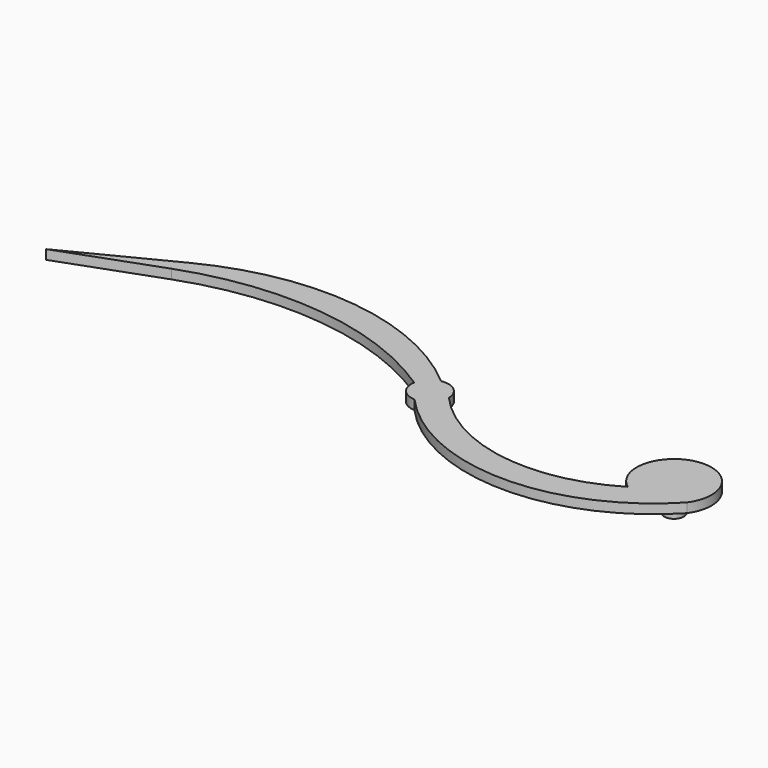
from build123d import *

# Parameters (mm, degrees)
F0_R     = 1.5875
F0_R_2   = 1.651
F1_DEPTH = 1.6002
F2_R     = 1.5875
F2_R_2   = 1.651
F3_DEPTH = 4.7752


with BuildPart() as f1:
    # F0 (on Top) → F1 (new body)
    with BuildSketch(Plane.XY):
        with BuildLine():
            ThreePointArc((-3.774051, -5.106764), (-21.934308, -8.777509), (-38.227296, 0.043366))
            ThreePointArc((-38.227296, 0.043366), (-39.403324, 2.466965), (-42.018165, 3.114637))
            ThreePointArc((-42.018165, 3.114637), (-64.733422, 13.156228), (-89.188089, 8.82198))
            Line((-89.188089, 8.82198), (-106.5022, 0))
            Line((-106.5022, 0), (-90.018623, 5.999531))
            ThreePointArc((-90.018623, 5.999531), (-66.625194, 8.705331), (-44.525194, 0.571215))
            ThreePointArc((-44.525194, 0.571215), (-43.86651, -2.001703), (-41.483321, -3.173958))
            ThreePointArc((-41.483321, -3.173958), (-18.287164, -13.645991), (5.147266, -3.718622))
            ThreePointArc((5.147266, -3.718622), (-0.976301, 6.274499), (-3.774051, -5.106764))
        make_face()
        with Locations((-41.402, 0)):
            Circle(F0_R, mode=Mode.SUBTRACT)
        Circle(F0_R_2, mode=Mode.SUBTRACT)
    extrude(amount=F1_DEPTH)

    # F2 (on face) → F3 (join)
    with BuildSketch(Plane.XY.offset(1.6002)):
        with Locations((-41.402, 0)):
            Circle(F2_R)
        Circle(F2_R_2)
    extrude(amount=-F3_DEPTH)


solid = f1.part
